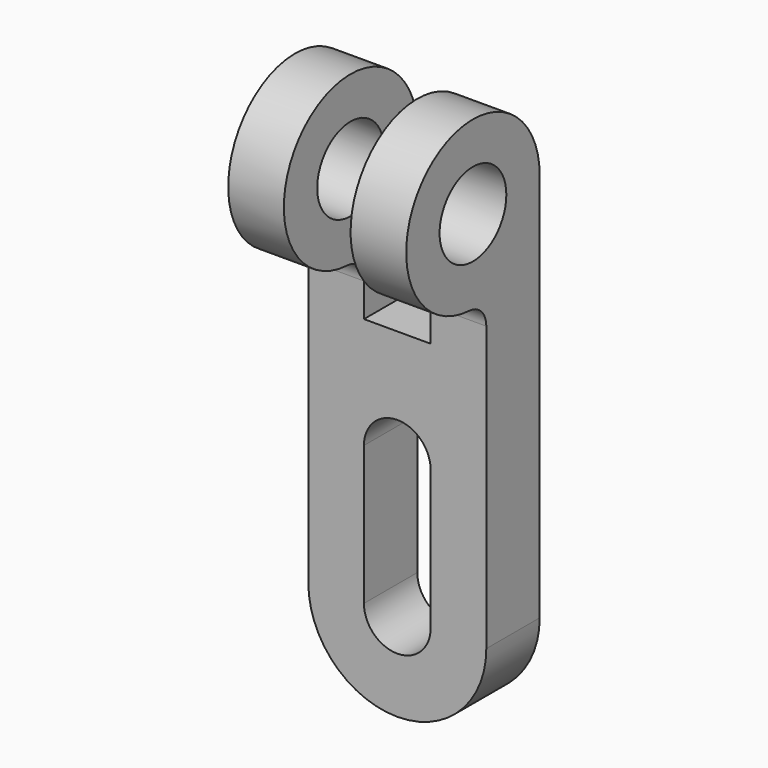
from build123d import *

# Parameters (mm, degrees)
F0_R     = 7.5
F1_DEPTH = 32
F2_W     = 12
F2_H     = 40
F3_DEPTH = 23.55
F5_DEPTH = 15.001


with BuildPart() as f1:
    # F0 (on Right) → F1 (new body)
    with BuildSketch(Plane.YZ):
        with BuildLine():
            Line((15, -86), (15, 0))
            ThreePointArc((15, 0), (-10.3237080242, 10.8821437517), (-0.7894736842, -14.9792099692))
            ThreePointArc((-0.7894736842, -14.9792099692), (1.9019050004, -16.2206771546), (3, -18.973665961))
            Line((3, -18.973665961), (3, -86))
            Line((3, -86), (15, -86))
        make_face()
        Circle(F0_R, mode=Mode.SUBTRACT)
    extrude(amount=F1_DEPTH)

    # F2 (on Front) → F3 (cut, symmetric)
    with BuildSketch(Plane.XZ):
        with Locations((16, -5)):
            Rectangle(F2_W, F2_H)
    extrude(amount=F3_DEPTH, both=True, mode=Mode.SUBTRACT)

    # F4 (on Front) + F1_face (on face) → F5 (cut, through all)
    with BuildSketch(Plane.XZ):
        with BuildLine():
            ThreePointArc((16.0000002313, -86), (4.6862915828, -81.3137085808), (0, -70))
            Line((0, -70), (0, -86))
            Line((0, -86), (16.0000002313, -86))
        make_face()
        with BuildLine():
            Line((22, -70), (22, -45))
            ThreePointArc((22, -45), (16, -39), (10, -45))
            Line((10, -45), (10, -70))
            ThreePointArc((10, -70), (16, -76), (22, -70))
        make_face()
        with BuildLine():
            ThreePointArc((32, -70), (27.3137085808, -81.3137084172), (16.0000002313, -86))
            Line((16.0000002313, -86), (32, -86))
            Line((32, -86), (32, -70))
        make_face()
    with BuildSketch(Plane(origin=(16, 15, -46.7316476346), x_dir=(-1, 0, 0), z_dir=(0, 1, 0))):
        Polygon((16, -39.2683523654), (16, 46.7316476346), (6, 46.7316476346), (6, 21.7316476346), (-6, 21.7316476346), (-6, 46.7316476346), (-16, 46.7316476346), (-16, -39.2683523654), align=None)
    extrude(amount=-F5_DEPTH, dir=(0, -1, 0), mode=Mode.SUBTRACT)


solid = f1.part
